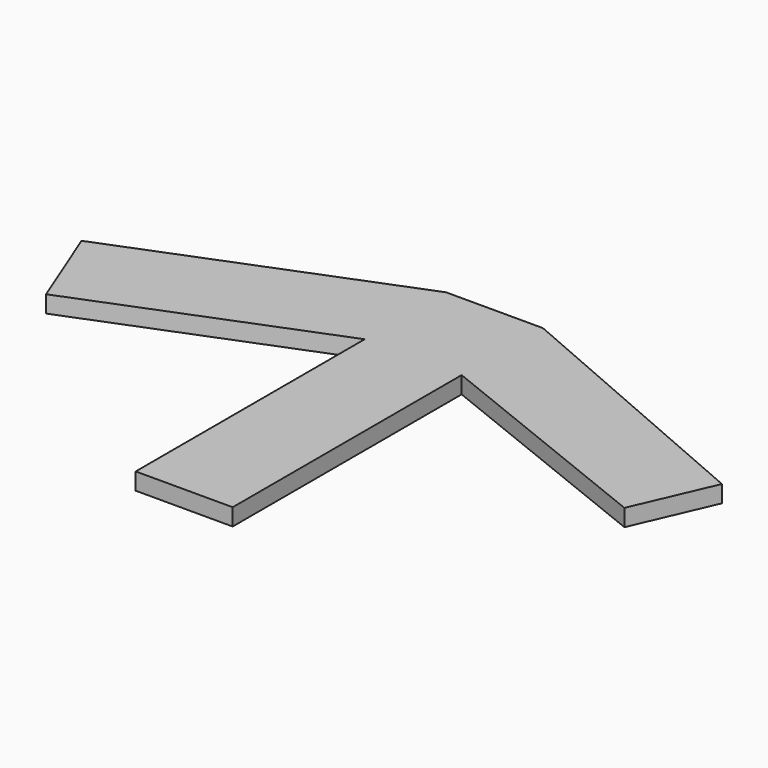
from build123d import *

# Parameters (mm, degrees)
F1_DEPTH = 1.1176


with BuildPart() as f1:
    # F0 (on Top) → F1 (new body)
    with BuildSketch(Plane.XY):
        Polygon((-3.279098, 0.532189), (-3.279098, 7.214016), (-21.454671, 0), (-19.16354, -5.77246), align=None)
        Polygon((3.091722, 7.214016), (-3.279098, 7.214016), (-3.279098, 0.532189), (-3.279098, -18.269263), (3.091722, -18.269263), (3.091722, 0.532189), align=None)
        Polygon((21.079501, -0.577142), (3.091722, 7.214016), (3.091722, 0.532189), (18.829221, -5.77246), align=None)
    extrude(amount=F1_DEPTH)


solid = f1.part
